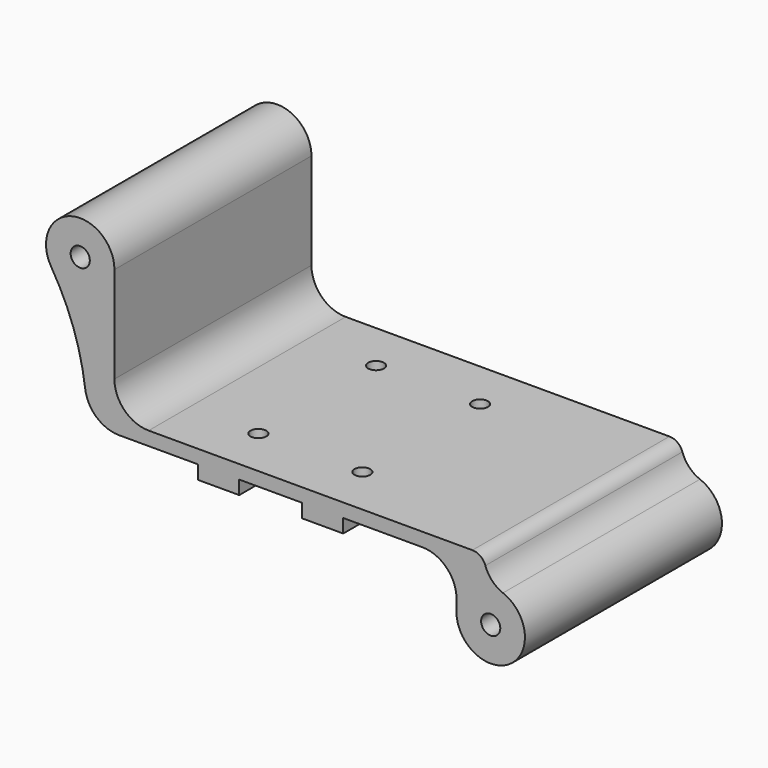
from build123d import *

# Parameters (mm, degrees)
F0_R     = 1.4
F1_DEPTH = 36
F2_R     = 5
F3_W     = 6
F3_H     = 36
F4_DEPTH = 2
F5_R     = 2
F6_R     = 1.15
F7_DEPTH = 4


with BuildPart() as f1:
    # F0 (on Front) → F1 (new body)
    with BuildSketch(Plane.XZ):
        with BuildLine():
            Line((55, -21.085023), (55, -27.809023))
            ThreePointArc((55, -27.809023), (62.833366, -31.928737), (61.788816, -23.139961))
            ThreePointArc((61.788816, -23.139961), (59.764502, -21.545715), (59, -19.085023))
            Line((59, -19.085023), (5, -19.085023))
            Line((5, -19.085023), (5, 0))
            ThreePointArc((5, 0), (-1.368482, 4.809081), (-4.250902, -2.632457))
            ThreePointArc((-4.250902, -2.632457), (-0.338276, -11.492459), (1, -21.085023))
            Line((1, -21.085023), (55, -21.085023))
        make_face()
        with Locations((60, -27.809023)):
            Circle(F0_R, mode=Mode.SUBTRACT)
        Circle(F0_R, mode=Mode.SUBTRACT)
    extrude(amount=F1_DEPTH)

    # F2
    f2_edges = [f1.edges().sort_by_distance(p)[0] for p in [
        (5, -18, -19.085023),
        (1, -18, -21.085023),
        (55, -18, -21.085023),
    ]]
    fillet(f2_edges, radius=F2_R)

    # F3 (on face) → F4 (join)
    with BuildSketch(Plane(origin=(0, 0, -21.085023), x_dir=(1, 0, 0), z_dir=(0, 0, -1))):
        with Locations((20.243325, 18)):
            Rectangle(F3_W, F3_H)
        with Locations((35.443325, 18)):
            Rectangle(F3_W, F3_H)
    extrude(amount=F4_DEPTH)

    # F5
    f5_edges = [f1.edges().sort_by_distance(p)[0] for p in [
        (59, -18, -19.085023),
    ]]
    fillet(f5_edges, radius=F5_R)

    # F6 (on face) → F7 (cut, through all)
    with BuildSketch(Plane(origin=(0, 0, -23.085023), x_dir=(1, 0, 0), z_dir=(0, 0, -1))):
        with Locations((20.243325, 28.75)):
            Circle(F6_R)
        with Locations((35.443325, 28.75)):
            Circle(F6_R)
        with Locations((20.243325, 7.25)):
            Circle(F6_R)
        with Locations((35.443325, 7.25)):
            Circle(F6_R)
    extrude(amount=-F7_DEPTH, mode=Mode.SUBTRACT)


solid = f1.part
